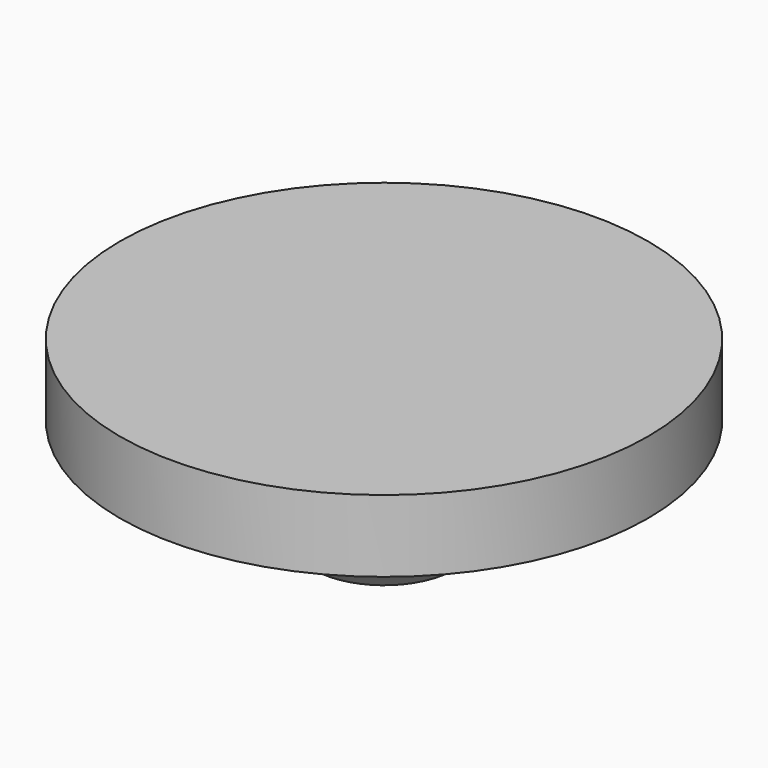
from build123d import *

# Parameters (mm, degrees)
F2_SIZE = 1


with BuildPart() as f1:
    # F0 (on Front) → F1 (revolve)
    with BuildSketch(Plane.XZ):
        Polygon((-3.95, 0), (0, 0), (0, 7.5), (-11, 7.5), (-11, 4.5), (-5.5, 4.5), (-5.5, 3.5), (-3.95, 3.5), align=None)
    revolve(axis=Axis((0, 0, 3.75), (0, 0, 1)))

    # F2
    f2_edges = [f1.edges().sort_by_distance(p)[0] for p in [
        (3.95, 0, 0),
    ]]
    chamfer(f2_edges, length=F2_SIZE)


solid = f1.part
